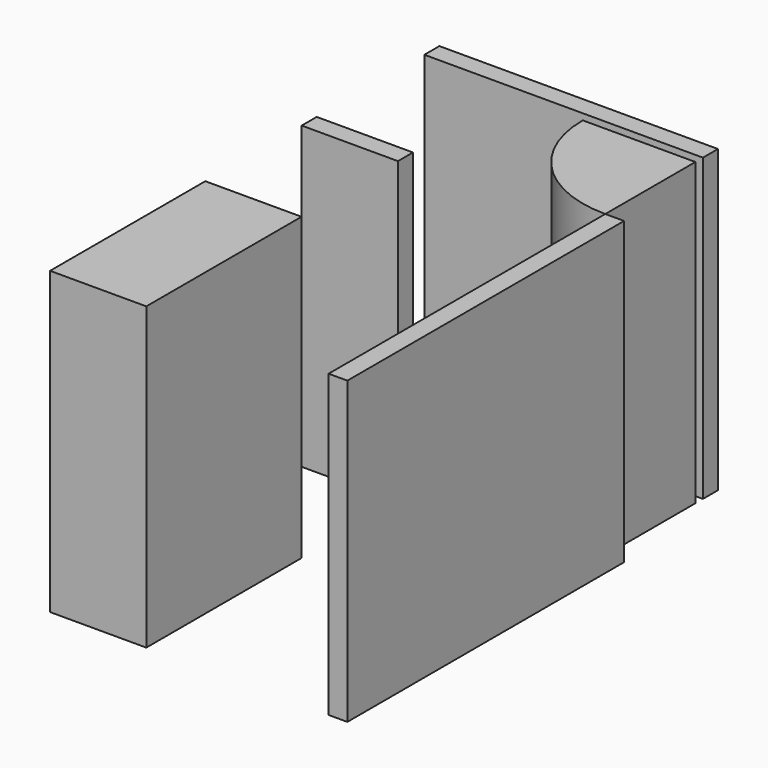
from build123d import *

# Parameters (mm, degrees)
F0_W     = 781.05
F0_H     = 152.4
F0_H_2   = 1574.8
F0_W_2   = 152.4
F0_H_3   = 2806.7
F0_W_3   = 2260.6
F2_DEPTH = 2438.4
F1_R     = 50.8
F3_DEPTH = 203.2


with BuildPart() as f2:
    # F0 (on Top) → F2 (new body)
    with BuildSketch(Plane.XY):
        with Locations((390.525, 2628.9)):
            Rectangle(F0_W, F0_H)
        with Locations((390.525, 787.4)):
            Rectangle(F0_W, F0_H_2)
        with BuildLine():
            ThreePointArc((1346.2, 3721.1), (1614.021559, 3074.521559), (2260.6, 2806.7))
            Line((2260.6, 2806.7), (2260.6, 3721.1))
            Line((2260.6, 3721.1), (1346.2, 3721.1))
        make_face()
        with Locations((2336.8, 1403.35)):
            Rectangle(F0_W_2, F0_H_3)
        with Locations((1130.3, 3873.5)):
            Rectangle(F0_W_3, F0_H)
    extrude(amount=F2_DEPTH)


with BuildPart() as f3:
    # F1 (on face) → F3 (new body)
    with BuildSketch(Plane.XY):
        with Locations((1917.7, 1162.05)):
            Circle(F1_R)
    extrude(amount=F3_DEPTH)


solid = Compound([f2.part, f3.part])
